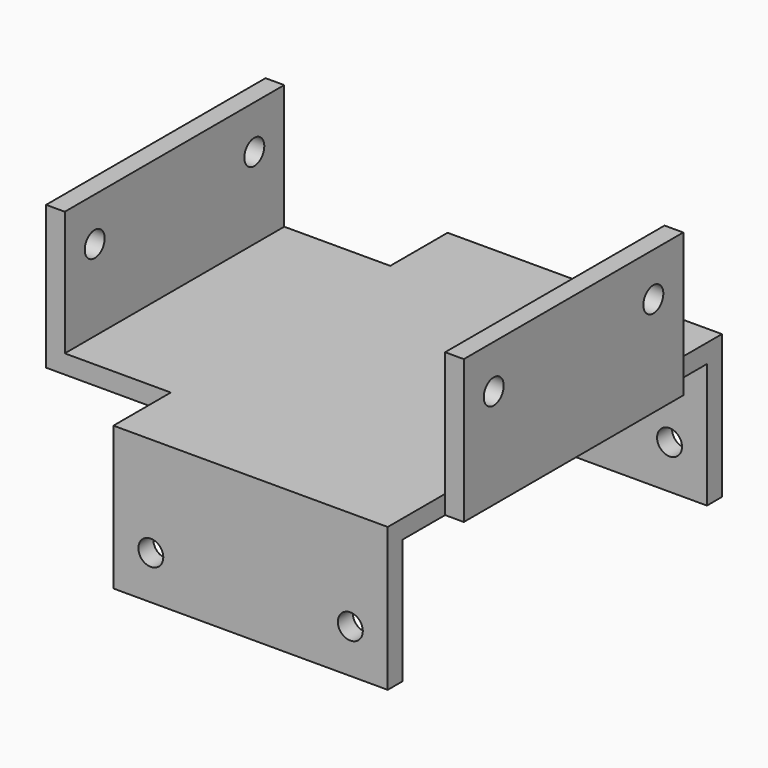
from build123d import *

# Parameters (mm, degrees)
F0_W          = 10
F0_H          = 22
F0_W_2        = 22
F0_H_2        = 5.75
F0_W_3        = 1.5
F1_DEPTH      = 0.75
F1_DEPTH_BACK = 0.75
F2_W          = 1.5
F2_H          = 22
F3_DEPTH      = 10
F4_W          = 22
F4_H          = 1.5
F5_DEPTH      = 10
F6_R          = 1
F7_DEPTH      = 32.001
F7_DEPTH_BACK = 1.5
F8_R          = 1
F9_DEPTH      = 1.5


with BuildPart() as f1:
    # F0 (on Top) → F1 (new body, two sides)
    with BuildSketch(Plane.XY) as f1_sk:
        with Locations((-11.75, 0)):
            Rectangle(F0_W, F0_H)
        with Locations((4.25, 13.875)):
            Rectangle(F0_W_2, F0_H_2)
        with Locations((4.25, 0)):
            Rectangle(F0_W_2, F0_H)
        with Locations((16, 0)):
            Rectangle(F0_W_3, F0_H)
        with Locations((4.25, -13.875)):
            Rectangle(F0_W_2, F0_H_2)
    extrude(amount=F1_DEPTH)
    extrude(f1_sk.sketch, amount=-F1_DEPTH_BACK)

    # F2 (on face) → F3 (join)
    with BuildSketch(Plane.XY.offset(0.75)):
        with Locations((-16, 0)):
            Rectangle(F2_W, F2_H)
        with Locations((16, 0)):
            Rectangle(F2_W, F2_H)
    extrude(amount=F3_DEPTH)

    # F4 (on face) → F5 (join)
    with BuildSketch(Plane(origin=(0, 0, -0.75), x_dir=(1, 0, 0), z_dir=(0, 0, -1))):
        with Locations((4.25, 16)):
            Rectangle(F4_W, F4_H)
    extrude(amount=F5_DEPTH)

    # F6 (on face) → F7 (cut, two sides)
    with BuildSketch(Plane.YZ.offset(-15.25)) as f7_sk:
        with Locations((-8, 7.25)):
            Circle(F6_R)
        with Locations((8, 7.25)):
            Circle(F6_R)
    extrude(amount=F7_DEPTH, mode=Mode.SUBTRACT)
    extrude(f7_sk.sketch, amount=-F7_DEPTH_BACK, mode=Mode.SUBTRACT)

    # F8 (on face) → F9 (cut, through all)
    with BuildSketch(Plane.XZ.offset(16.75)):
        with Locations((-3.75, -7.25)):
            Circle(F8_R)
        with Locations((12.25, -7.25)):
            Circle(F8_R)
    extrude(amount=-F9_DEPTH, mode=Mode.SUBTRACT)

    # F10: F1 across plane


with BuildPart() as f1_1:
    add(f1.part)
    add(f1.part.mirror(Plane.XZ))


solid = f1_1.part
